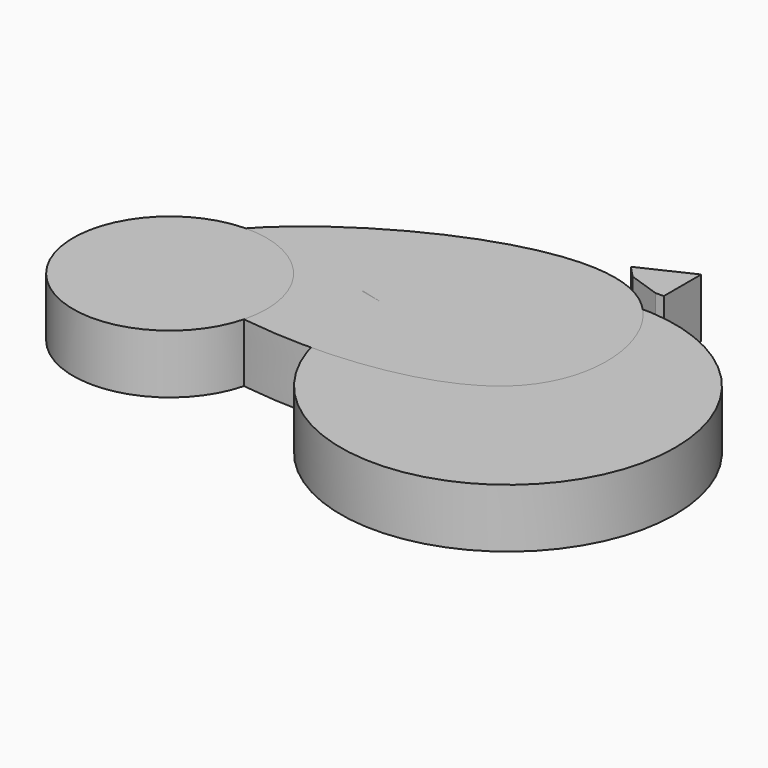
from build123d import *

# Parameters (mm, degrees)
F0_R     = 50
F3_DEPTH = 17.6
F2_R     = 28.9181189174


with BuildPart() as f3:
    # F0 (on Top) → F3 (new body)
    with BuildSketch(Plane.XY):
        Circle(F0_R)
    extrude(amount=F3_DEPTH)


with BuildPart() as f3b:
    # F1 (on Top) → F3, piece 2 (new body)
    with BuildSketch(Plane.XY):
        with BuildLine():
            add(Edge.make_bspline(
                [(0, 0), (16.7689814977, 15.1270119721), (4.5991760551, 80.0999724844), (-88.4927978988, 41.7520683862), (-125.7531292699, -12.1217655885), (-22.8341881309, -20.5983313464), (0, 0)],
                knots=[0, 0, 0, 0, 0.2260851292, 0.5051383866, 0.6921416859, 1, 1, 1, 1], degree=3))
        make_face()
    extrude(amount=F3_DEPTH)


with BuildPart() as f3c:
    # F2 (on Top) → F3, piece 3 (new body)
    with BuildSketch(Plane.XY):
        with Locations((-97.2382649779, -4.8968908377)):
            Circle(F2_R)
    extrude(amount=F3_DEPTH)


with BuildPart() as f3d:
    # F2 (on Top) → F3, piece 4 (new body)
    with BuildSketch(Plane.XY):
        Polygon((-2.4984139018, 58.2630112767), (0, 58.2630112767), (0, 72.2541287541), (-15.2902929112, 65.0586932898), (-11.8924491107, 61.4609792829), align=None)
    extrude(amount=F3_DEPTH)


with BuildPart() as f3e:
    # F2 (on Top) → F3, piece 5 (new body)
    with BuildSketch(Plane.XY):
        Polygon((-49.2687188089, 14.5366768431), (-56.6241184513, 16.442617369), (-56.6753521562, 16.2167530507), align=None)
    extrude(amount=F3_DEPTH)


solid = Compound([f3.part, f3b.part, f3c.part, f3d.part, f3e.part])
